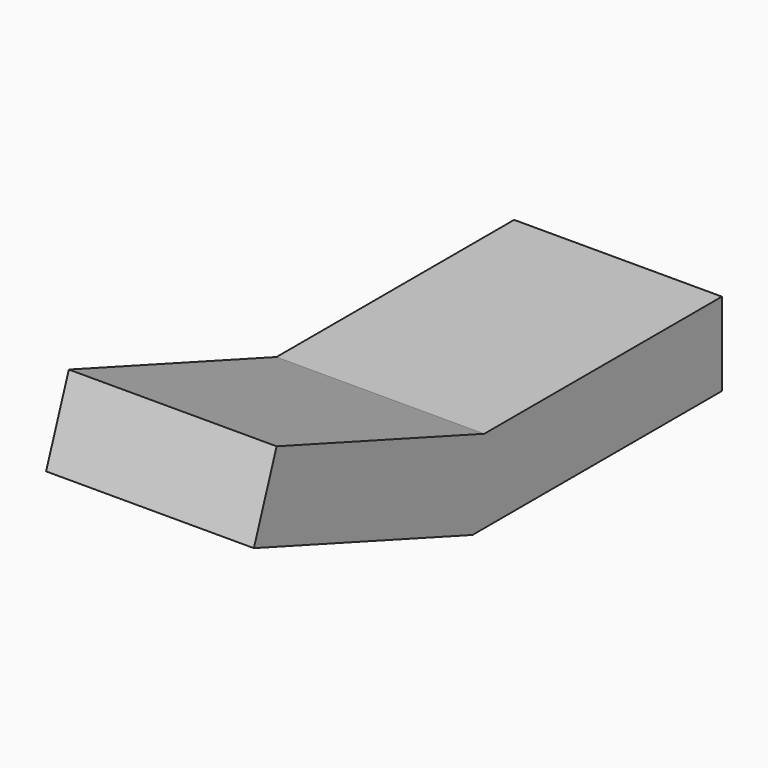
from build123d import *

# Parameters (mm, degrees)
BOX007_W                  = 0.5
BOX007_H                  = 0.75
BOX007_DEPTH              = 0.2
BOX008_W                  = 0.5
BOX008_H                  = 0.7
BOX008_DEPTH              = 0.2
BOX008_PLACEMENT_ANGLE    = 20
FUSION003_PLACEMENT_ANGLE = 180


with BuildPart() as cube007:
    # Box007 → Box007 (new body)
    with BuildSketch(Plane(origin=(0, -1.25, 0), x_dir=(1, 0, 0), z_dir=(0, 0, 1))):
        with Locations((0.25, 0.375)):
            Rectangle(BOX007_W, BOX007_H)
    extrude(amount=BOX007_DEPTH)


with BuildPart() as fusion003:
    # Box008 → Box008 (new body)
    with BuildSketch(Plane.XY):
        with Locations((0.25, 0.35)):
            Rectangle(BOX008_W, BOX008_H)
    extrude(amount=BOX008_DEPTH)


with BuildPart() as fusion003_1:
    # Box008 placement: moved
    add(fusion003.part.moved(Location((0, -0.5, 0))).rotate(Axis((0, -0.5, 0), (1, 0, 0)), BOX008_PLACEMENT_ANGLE))

    # Fusion003: union Cube007
    add(cube007.part)


with BuildPart() as fusion003_2:
    # Fusion003 placement: moved
    add(fusion003_1.part.moved(Location((3.85, 3.5, 0))).rotate(Axis((3.85, 3.5, 0), (0, 0, 1)), FUSION003_PLACEMENT_ANGLE))


solid = fusion003_2.part
